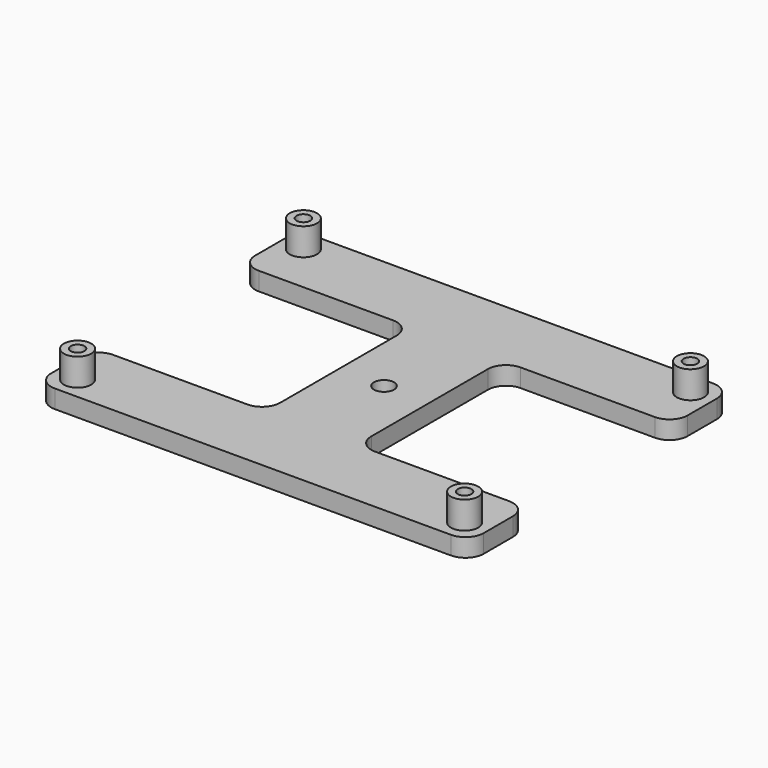
from build123d import *

# Parameters (mm, degrees)
F0_R     = 2.2
F1_DEPTH = 4
F2_R     = 3
F2_R_2   = 1.5
F3_DEPTH = 6


with BuildPart() as f1:
    # F0 (on Top) → F1 (new body)
    with BuildSketch(Plane.XY):
        with BuildLine():
            ThreePointArc((47.5, 32), (46.328427, 34.828427), (43.5, 36))
            Line((43.5, 36), (-43.5, 36))
            ThreePointArc((-43.5, 36), (-46.328427, 34.828427), (-47.5, 32))
            Line((-47.5, 32), (-47.5, 24))
            ThreePointArc((-47.5, 24), (-46.328427, 21.171573), (-43.5, 20))
            Line((-43.5, 20), (-14, 20))
            ThreePointArc((-14, 20), (-11.171573, 18.828427), (-10, 16))
            Line((-10, 16), (-10, -16))
            ThreePointArc((-10, -16), (-11.171573, -18.828427), (-14, -20))
            Line((-14, -20), (-43.5, -20))
            ThreePointArc((-43.5, -20), (-46.328427, -21.171573), (-47.5, -24))
            Line((-47.5, -24), (-47.5, -32))
            ThreePointArc((-47.5, -32), (-46.328427, -34.828427), (-43.5, -36))
            Line((-43.5, -36), (43.5, -36))
            ThreePointArc((43.5, -36), (46.328427, -34.828427), (47.5, -32))
            Line((47.5, -32), (47.5, -24))
            ThreePointArc((47.5, -24), (46.328427, -21.171573), (43.5, -20))
            Line((43.5, -20), (14, -20))
            ThreePointArc((14, -20), (11.171573, -18.828427), (10, -16))
            Line((10, -16), (10, 16))
            ThreePointArc((10, 16), (11.171573, 18.828427), (14, 20))
            Line((14, 20), (43.5, 20))
            ThreePointArc((43.5, 20), (46.328427, 21.171573), (47.5, 24))
            Line((47.5, 24), (47.5, 32))
        make_face()
        Circle(F0_R, mode=Mode.SUBTRACT)
    extrude(amount=F1_DEPTH)

    # F2 (on face) → F3 (join)
    with BuildSketch(Plane.XY.offset(4)):
        with Locations((-42.5, 31)):
            Circle(F2_R)
        with Locations((-42.5, 31)):
            Circle(F2_R_2, mode=Mode.SUBTRACT)
        with Locations((42.5, 31)):
            Circle(F2_R)
        with Locations((42.5, 31)):
            Circle(F2_R_2, mode=Mode.SUBTRACT)
        with Locations((42.5, -31)):
            Circle(F2_R)
        with Locations((42.5, -31)):
            Circle(F2_R_2, mode=Mode.SUBTRACT)
        with Locations((-42.5, -31)):
            Circle(F2_R)
        with Locations((-42.5, -31)):
            Circle(F2_R_2, mode=Mode.SUBTRACT)
    extrude(amount=F3_DEPTH)


solid = f1.part
